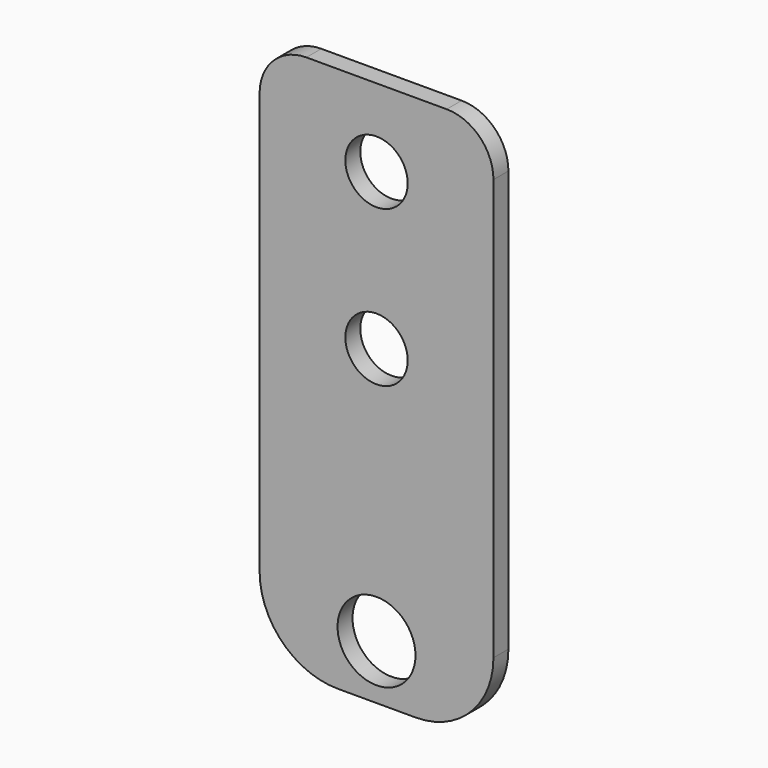
from build123d import *

# Parameters (mm, degrees)
F0_R     = 2.5
F0_R_2   = 2
F1_DEPTH = 1.2


with BuildPart() as f1:
    # F0 (on Front) → F1 (new body)
    with BuildSketch(Plane.XZ):
        with BuildLine():
            Line((-2.5, -17.5), (2.5, -17.5))
            ThreePointArc((2.5, -17.5), (6.035534, -16.035534), (7.5, -12.5))
            Line((7.5, -12.5), (7.5, 14.5))
            ThreePointArc((7.5, 14.5), (6.62132, 16.62132), (4.5, 17.5))
            Line((4.5, 17.5), (-4.5, 17.5))
            ThreePointArc((-4.5, 17.5), (-6.62132, 16.62132), (-7.5, 14.5))
            Line((-7.5, 14.5), (-7.5, -12.5))
            ThreePointArc((-7.5, -12.5), (-6.035534, -16.035534), (-2.5, -17.5))
        make_face()
        with Locations((0, -14)):
            Circle(F0_R, mode=Mode.SUBTRACT)
        with Locations((0, 2.5)):
            Circle(F0_R_2, mode=Mode.SUBTRACT)
        with Locations((0, 12.5)):
            Circle(F0_R_2, mode=Mode.SUBTRACT)
    extrude(amount=-F1_DEPTH)


solid = f1.part
